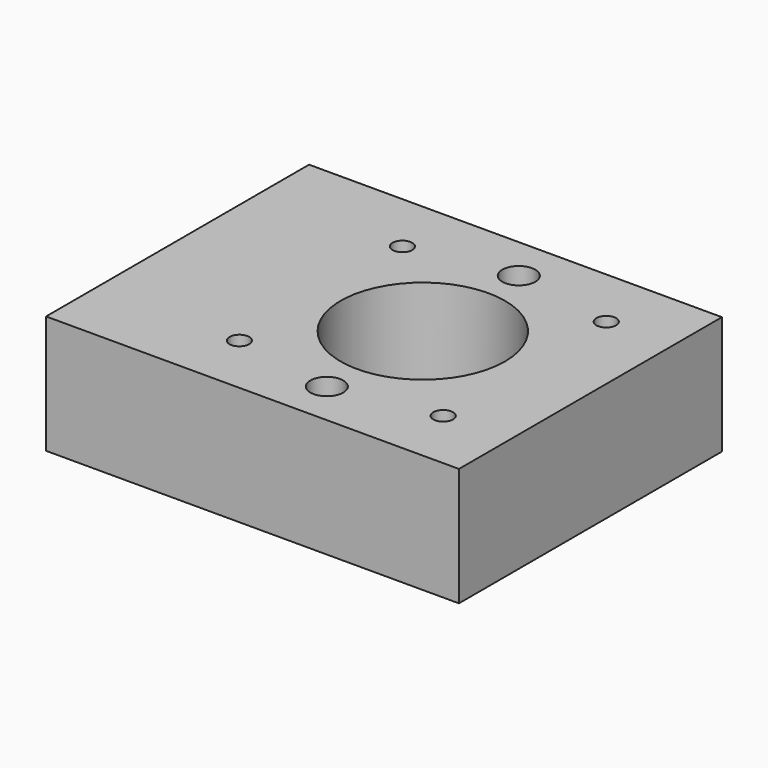
from build123d import *

# Parameters (mm, degrees)
F0_W     = 62.8
F0_H     = 50
F0_R     = 1.5
F0_R_2   = 12.5
F1_DEPTH = 18
F2_R     = 2.5
F3_DEPTH = 25


with BuildPart() as f1:
    # F0 (on Top) → F1 (new body)
    with BuildSketch(Plane.XY):
        with Locations((31.4, 25)):
            Rectangle(F0_W, F0_H)
        with Locations((21.8, 9.5)):
            Circle(F0_R, mode=Mode.SUBTRACT)
        with Locations((52.8, 9.5)):
            Circle(F0_R, mode=Mode.SUBTRACT)
        with Locations((21.8, 40.5)):
            Circle(F0_R, mode=Mode.SUBTRACT)
        with Locations((37.3, 25)):
            Circle(F0_R_2, mode=Mode.SUBTRACT)
        with Locations((52.8, 40.5)):
            Circle(F0_R, mode=Mode.SUBTRACT)
    extrude(amount=F1_DEPTH)

    # F2 (on face) → F3 (cut)
    with BuildSketch(Plane.XY.offset(18)):
        with Locations((37.3, 43.25)):
            Circle(F2_R)
        with Locations((37.3, 6.75)):
            Circle(F2_R)
    extrude(amount=-F3_DEPTH, mode=Mode.SUBTRACT)


solid = f1.part
